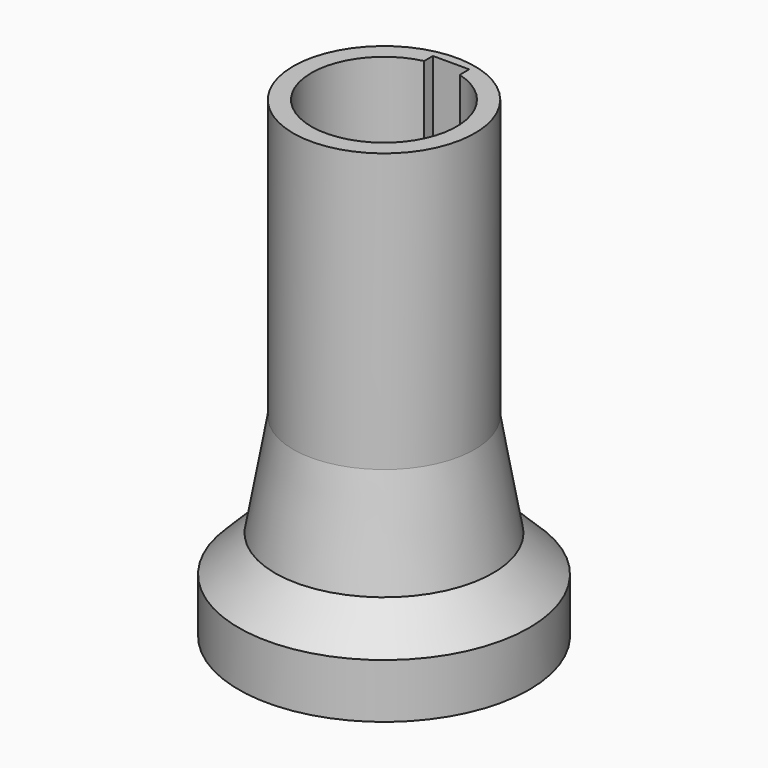
from build123d import *

# Parameters (mm, degrees)
F3_DEPTH = 30


with BuildPart() as f1:
    # F0 (on Front) → F1 (revolve)
    with BuildSketch(Plane.XZ):
        Polygon((-3.454545, -17.869791), (-3.454545, -20.869791), (-0.454545, -20.869791), (4.545455, -20.869791), (4.545455, 5.130209), (-0.454545, 5.130209), (-0.454545, -10.198509), (-1.454545, -15.869791), align=None)
    revolve(axis=Axis((4.545455, 0, -7.869791), (0, 0, -1)))

    # F2 (on face) → F3 (cut)
    with BuildSketch(Plane(origin=(0, 0, -20.869791), x_dir=(1, 0, 0), z_dir=(0, 0, -1))):
        with BuildLine():
            Line((5.640719, -4.498865), (5.640719, -3.847128))
            ThreePointArc((5.640719, -3.847128), (4.447064, 3.99879), (3.640719, -3.896339))
            Line((3.640719, -3.896339), (3.640719, -4.498865))
            Line((3.640719, -4.498865), (5.640719, -4.498865))
        make_face()
    extrude(amount=-F3_DEPTH, mode=Mode.SUBTRACT)


solid = f1.part
